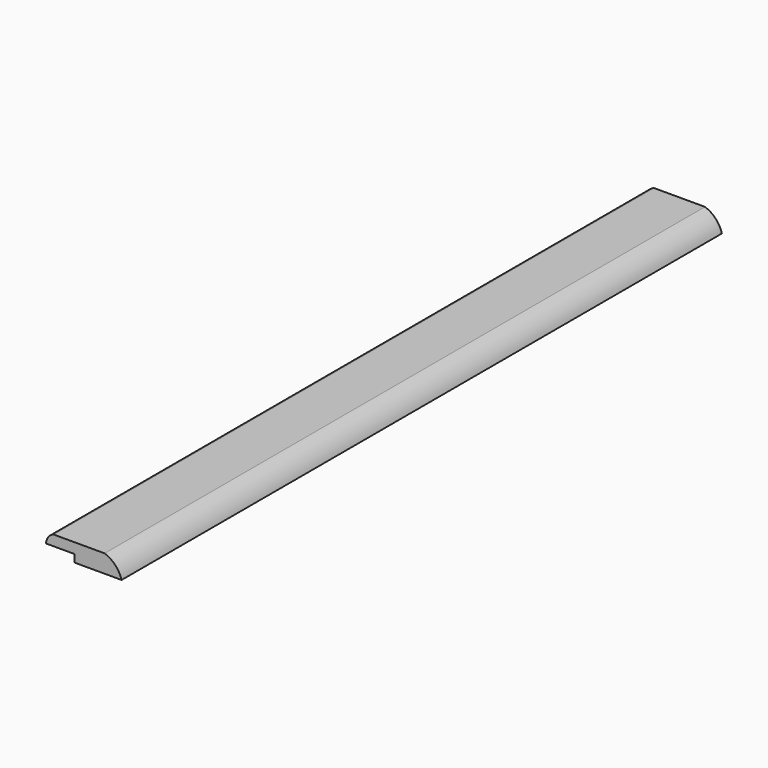
from build123d import *

# Parameters (mm, degrees)
F1_DEPTH = 795


with BuildPart() as f1:
    # F0 (on Front) → F1 (new body)
    with BuildSketch(Plane.XZ):
        with BuildLine():
            ThreePointArc((-24.065678, 1.161746), (-29.781737, -3.090211), (-32.065678, -9.838254))
            Line((-32.065678, -9.838254), (-2.065678, -9.838254))
            Line((-2.065678, -9.838254), (-2.065678, -17.838254))
            Line((-2.065678, -17.838254), (47.934322, -17.838254))
            ThreePointArc((47.934322, -17.838254), (41.251581, -6.142955), (29.934322, 1.161746))
            Line((29.934322, 1.161746), (-24.065678, 1.161746))
        make_face()
    extrude(amount=F1_DEPTH)


solid = f1.part
